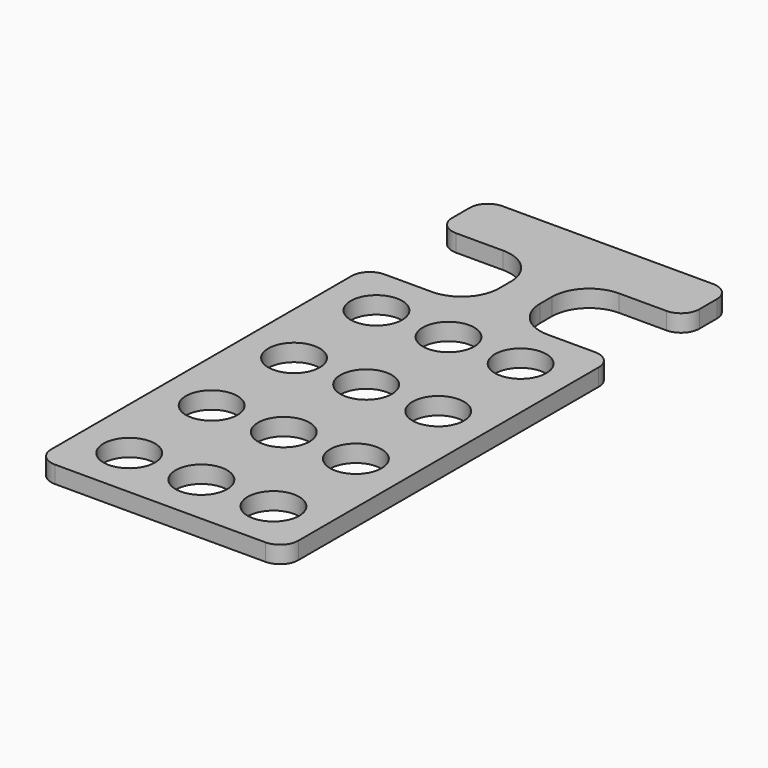
from build123d import *

# Parameters (mm, degrees)
F0_W     = 72
F0_H     = 163
F1_DEPTH = 5
F2_W     = 30
F2_H     = 26
F2_R     = 7.5
F3_DEPTH = 25
F4_R     = 10.8639610307
F5_R     = 5.3112698372


with BuildPart() as f1:
    # F0 (on Top) → F1 (new body)
    with BuildSketch(Plane.XY):
        with Locations((-8.3418504, 45.0741375387)):
            Rectangle(F0_W, F0_H)
    extrude(amount=-F1_DEPTH)

    # F2 (on face) → F3 (cut)
    with BuildSketch(Plane.XY):
        with Locations((12.6581496, 96.5741375387)):
            Rectangle(F2_W, F2_H)
        with Locations((-29.3418504, 96.5741375387)):
            Rectangle(F2_W, F2_H)
        with Locations((12.6581496, 68.5741375387)):
            Circle(F2_R)
        with Locations((-29.3418504, 68.5741375387)):
            Circle(F2_R)
        with Locations((-8.3418504, 38.5741375387)):
            Circle(F2_R)
        with Locations((-29.3418504, -21.4258624613)):
            Circle(F2_R)
        with Locations((12.6581496, -21.4258624613)):
            Circle(F2_R)
        with Locations((12.6581496, 38.5741375387)):
            Circle(F2_R)
        with Locations((-8.3418504, 68.5741375387)):
            Circle(F2_R)
        with Locations((-29.3418504, 38.5741375387)):
            Circle(F2_R)
        with Locations((-8.3418507129, -21.4258624613)):
            Circle(F2_R)
        with Locations((-29.3418504, 8.5741375387)):
            Circle(F2_R)
        with Locations((12.6581492871, 8.5741375387)):
            Circle(F2_R)
        with Locations((-8.3418507129, 8.5741375387)):
            Circle(F2_R)
    extrude(amount=-F3_DEPTH, mode=Mode.SUBTRACT)

    # F4
    f4_edges = [f1.edges().sort_by_distance(p)[0] for p in [
        (-2.34185, 109.574138, -2.5),
        (-2.34185, 83.574138, -2.5),
        (-14.34185, 83.574138, -2.5),
        (-14.34185, 109.574138, -2.5),
    ]]
    fillet(f4_edges, radius=F4_R)

    # F5
    f5_edges = [f1.edges().sort_by_distance(p)[0] for p in [
        (27.65815, 126.574138, -2.5),
        (-44.34185, 126.574138, -2.5),
        (-44.34185, 109.574138, -2.5),
        (-44.34185, 83.574138, -2.5),
        (27.65815, 109.574138, -2.5),
        (27.65815, 83.574138, -2.5),
        (-44.34185, -36.425862, -2.5),
        (27.65815, -36.425862, -2.5),
    ]]
    fillet(f5_edges, radius=F5_R)


solid = f1.part
